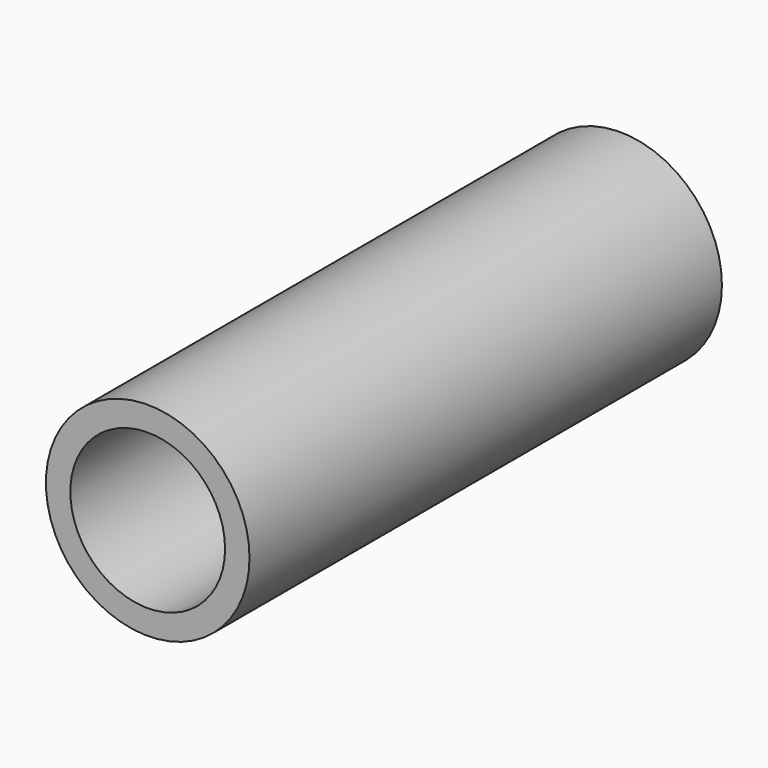
from build123d import *

# Parameters (mm, degrees)
F0_R     = 12.7
F0_R_2   = 9.652
F1_DEPTH = 18.415
F2_DEPTH = 36.83


with BuildPart() as f1:
    # F0 (on Front) → F1 (new body, symmetric)
    with BuildSketch(Plane.XZ):
        Circle(F0_R)
        Circle(F0_R_2, mode=Mode.SUBTRACT)
    extrude(amount=F1_DEPTH, both=True)


with BuildPart() as f2:
    # F0 (on Front) → F2 (new body, symmetric)
    with BuildSketch(Plane.XZ):
        Circle(F0_R)
        Circle(F0_R_2, mode=Mode.SUBTRACT)
    extrude(amount=F2_DEPTH, both=True)


solid = Compound([f1.part, f2.part])
